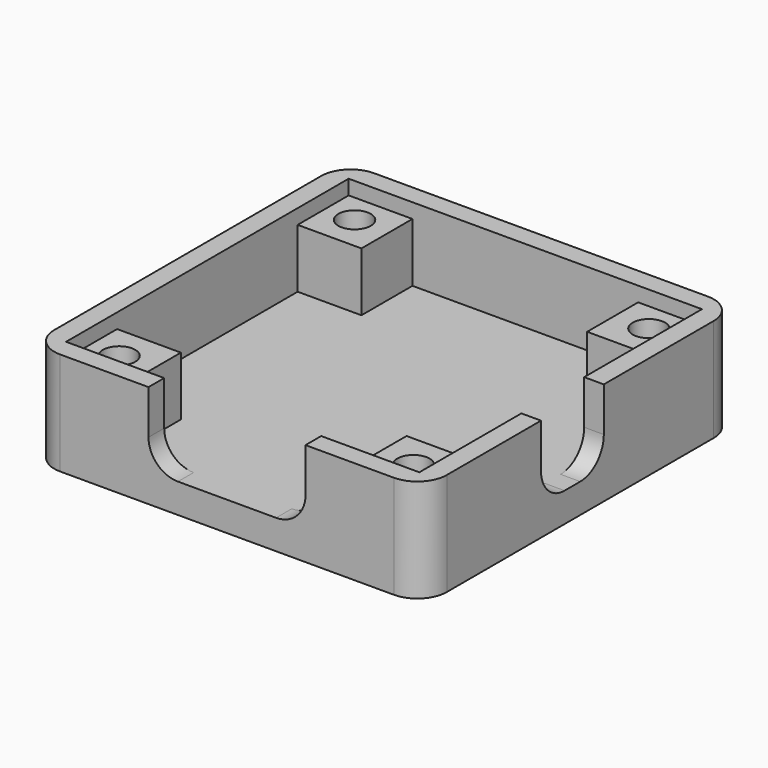
from build123d import *

# Parameters (mm, degrees)
F0_W           = 16
F0_H           = 2
F0_W_2         = 6.5
F0_H_2         = 6.5
F0_W_3         = 2
F0_H_3         = 8
F1_DEPTH       = 3
F2_DEPTH       = 7.5
F3_DEPTH       = 6
F5_D           = 3.3
F5_CBORE_D     = 6.5
F5_CBORE_DEPTH = 3
F6_R           = 3


with BuildPart() as f1:
    # F0 (on Top) → F1 (new body)
    with BuildSketch(Plane.XY):
        Polygon((-8, -20), (-8, -18), (-11.5, -18), (-18, -18), (-18, -11.5), (-18, 11.5), (-18, 18), (-11.5, 18), (11.5, 18), (18, 18), (18, 11.5), (18, 3), (20, 3), (20, 20), (-20, 20), (-20, -20), align=None)
        with Locations((0, -19)):
            Rectangle(F0_W, F0_H)
        with Locations((-14.75, -14.75)):
            Rectangle(F0_W_2, F0_H_2)
        Polygon((-8, -20), (-8, -18), (-11.5, -18), (-18, -18), (-18, -11.5), (-18, 11.5), (-18, 18), (-11.5, 18), (11.5, 18), (18, 18), (18, 11.5), (18, 3), (20, 3), (20, 20), (-20, 20), (-20, -20), align=None)
        Polygon((-8, -18), (8, -18), (11.5, -18), (11.5, -11.5), (18, -11.5), (18, -5), (18, 3), (18, 11.5), (11.5, 11.5), (11.5, 18), (-11.5, 18), (-11.5, 11.5), (-18, 11.5), (-18, -11.5), (-11.5, -11.5), (-11.5, -18), align=None)
        Polygon((-8, -20), (-8, -18), (-11.5, -18), (-18, -18), (-18, -11.5), (-18, 11.5), (-18, 18), (-11.5, 18), (11.5, 18), (18, 18), (18, 11.5), (18, 3), (20, 3), (20, 20), (-20, 20), (-20, -20), align=None)
        with Locations((14.75, -14.75)):
            Rectangle(F0_W_2, F0_H_2)
        Polygon((11.5, -18), (8, -18), (8, -20), (20, -20), (20, -5), (18, -5), (18, -11.5), (18, -18), align=None)
        with Locations((14.75, 14.75)):
            Rectangle(F0_W_2, F0_H_2)
        Polygon((-8, -20), (-8, -18), (-11.5, -18), (-18, -18), (-18, -11.5), (-18, 11.5), (-18, 18), (-11.5, 18), (11.5, 18), (18, 18), (18, 11.5), (18, 3), (20, 3), (20, 20), (-20, 20), (-20, -20), align=None)
        with Locations((-14.75, 14.75)):
            Rectangle(F0_W_2, F0_H_2)
        Polygon((-8, -20), (-8, -18), (-11.5, -18), (-18, -18), (-18, -11.5), (-18, 11.5), (-18, 18), (-11.5, 18), (11.5, 18), (18, 18), (18, 11.5), (18, 3), (20, 3), (20, 20), (-20, 20), (-20, -20), align=None)
        with Locations((19, -1)):
            Rectangle(F0_W_3, F0_H_3)
        Polygon((11.5, -18), (8, -18), (8, -20), (20, -20), (20, -5), (18, -5), (18, -11.5), (18, -18), align=None)
    extrude(amount=-F1_DEPTH)

    # F0 (on Top) → F2 (join)
    with BuildSketch(Plane.XY):
        Polygon((-8, -20), (-8, -18), (-11.5, -18), (-18, -18), (-18, -11.5), (-18, 11.5), (-18, 18), (-11.5, 18), (11.5, 18), (18, 18), (18, 11.5), (18, 3), (20, 3), (20, 20), (-20, 20), (-20, -20), align=None)
        Polygon((11.5, -18), (8, -18), (8, -20), (20, -20), (20, -5), (18, -5), (18, -11.5), (18, -18), align=None)
    extrude(amount=F2_DEPTH)

    # F0 (on Top) → F3 (join)
    with BuildSketch(Plane.XY):
        with Locations((-14.75, 14.75)):
            Rectangle(F0_W_2, F0_H_2)
        Polygon((-8, -20), (-8, -18), (-11.5, -18), (-18, -18), (-18, -11.5), (-18, 11.5), (-18, 18), (-11.5, 18), (11.5, 18), (18, 18), (18, 11.5), (18, 3), (20, 3), (20, 20), (-20, 20), (-20, -20), align=None)
        with Locations((14.75, 14.75)):
            Rectangle(F0_W_2, F0_H_2)
        Polygon((-8, -20), (-8, -18), (-11.5, -18), (-18, -18), (-18, -11.5), (-18, 11.5), (-18, 18), (-11.5, 18), (11.5, 18), (18, 18), (18, 11.5), (18, 3), (20, 3), (20, 20), (-20, 20), (-20, -20), align=None)
        with Locations((14.75, -14.75)):
            Rectangle(F0_W_2, F0_H_2)
        Polygon((11.5, -18), (8, -18), (8, -20), (20, -20), (20, -5), (18, -5), (18, -11.5), (18, -18), align=None)
        with Locations((-14.75, -14.75)):
            Rectangle(F0_W_2, F0_H_2)
        Polygon((-8, -20), (-8, -18), (-11.5, -18), (-18, -18), (-18, -11.5), (-18, 11.5), (-18, 18), (-11.5, 18), (11.5, 18), (18, 18), (18, 11.5), (18, 3), (20, 3), (20, 20), (-20, 20), (-20, -20), align=None)
    extrude(amount=F3_DEPTH)

    # F5 (through all)
    with Locations(Plane(origin=(0, 0, -3), x_dir=(1, 0, 0), z_dir=(0, 0, -1))):
        with Locations((-15, 15), (15, 15), (15, -15), (-15, -15)):
            CounterBoreHole(F5_D / 2, F5_CBORE_D / 2, F5_CBORE_DEPTH)

    # F6
    f6_edges = [f1.edges().sort_by_distance(p)[0] for p in [
        (-20, -20, 2.25),
        (20, -20, 2.25),
        (-20, 20, 2.25),
        (20, 20, 2.25),
        (-8, -19, 0),
        (8, -19, 0),
        (19, 3, 0),
        (19, -5, 0),
    ]]
    fillet(f6_edges, radius=F6_R)


solid = f1.part
